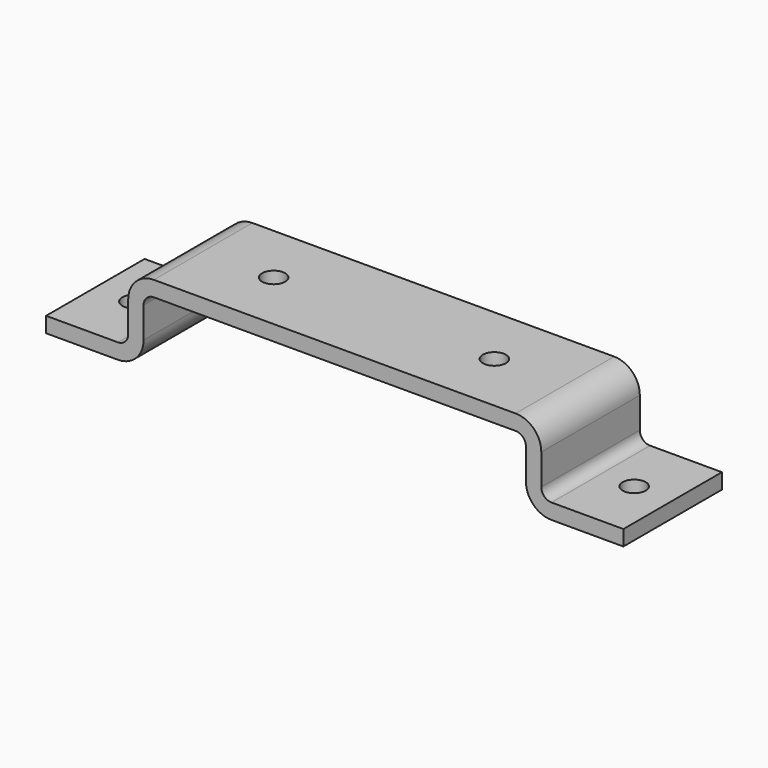
from build123d import *

# Parameters (mm, degrees)
F1_DEPTH = 38.1
F2_R     = 6.35
F3_R     = 15.875
F4_R     = 7.14375
F5_DEPTH = 25.4
F6_R     = 7.14375
F7_DEPTH = 25.4


with BuildPart() as f1:
    # F0 (on Front) → F1 (new body, symmetric)
    with BuildSketch(Plane.XZ):
        Polygon((-178.59375, -15.875), (-178.59375, -25.4), (-118.26875, -25.4), (-118.26875, 15.875), (118.26875, 15.875), (118.26875, -25.4), (178.59375, -25.4), (178.59375, -15.875), (127.79375, -15.875), (127.79375, 25.4), (-127.79375, 25.4), (-127.79375, -15.875), align=None)
    extrude(amount=F1_DEPTH, both=True)

    # F2
    f2_edges = [f1.edges().sort_by_distance(p)[0] for p in [
        (-127.79375, 0, -15.875),
        (-118.26875, 0, 15.875),
        (118.26875, 0, 15.875),
        (127.79375, 0, -15.875),
    ]]
    fillet(f2_edges, radius=F2_R)

    # F3
    f3_edges = [f1.edges().sort_by_distance(p)[0] for p in [
        (-127.79375, 0, 25.4),
        (127.79375, 0, 25.4),
        (118.26875, 0, -25.4),
        (-118.26875, 0, -25.4),
    ]]
    fillet(f3_edges, radius=F3_R)

    # F4 (on face) → F5 (cut)
    with BuildSketch(Plane.XY.offset(25.4)):
        with Locations((-68.2625, 0)):
            Circle(F4_R)
        with Locations((68.2625, 0)):
            Circle(F4_R)
    extrude(amount=-F5_DEPTH, mode=Mode.SUBTRACT)

    # F6 (on face) → F7 (cut)
    with BuildSketch(Plane.XY.offset(-15.875)):
        with Locations((-154.78125, 0)):
            Circle(F6_R)
        with Locations((154.78125, 0)):
            Circle(F6_R)
    extrude(amount=-F7_DEPTH, mode=Mode.SUBTRACT)


solid = f1.part
